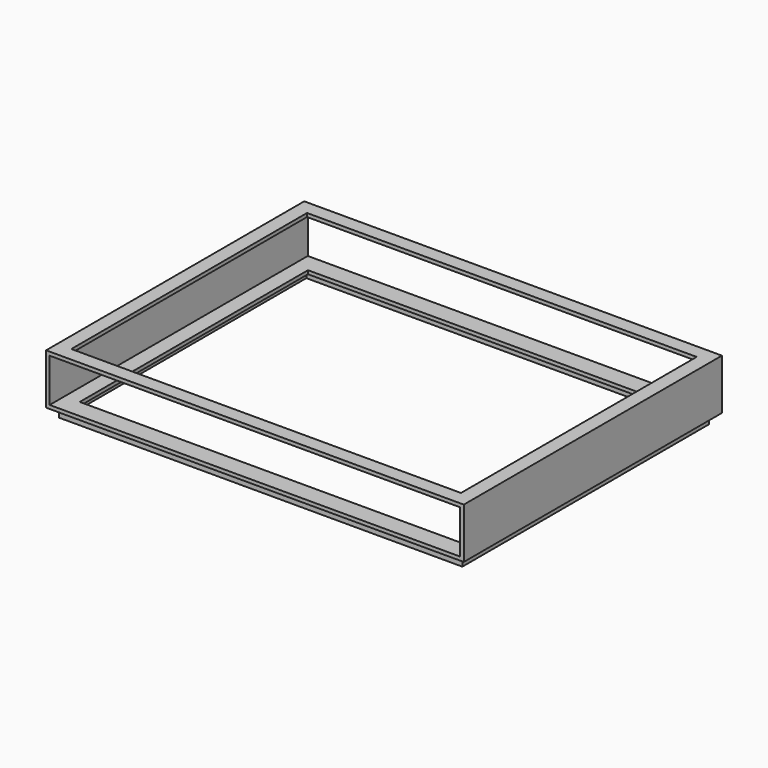
from build123d import *

# Parameters (mm, degrees)
F0_W     = 2233
F0_H     = 270
F0_W_2   = 2195
F0_H_2   = 232
F1_DEPTH = 862.5
F2_W     = 2083
F2_H     = 1575
F3_DEPTH = 38
F4_W     = 2157
F4_H     = 1649
F4_W_2   = 2119
F4_H_2   = 1611
F5_DEPTH = 50
F6_W     = 2033
F6_H     = 1525
F7_DEPTH = 25


with BuildPart() as f1:
    # F0 (on Front) → F1 (new body, symmetric)
    with BuildSketch(Plane.XZ):
        with Locations((1116.5, 135)):
            Rectangle(F0_W, F0_H)
        with Locations((1116.5, 135)):
            Rectangle(F0_W_2, F0_H_2, mode=Mode.SUBTRACT)
    extrude(amount=F1_DEPTH, both=True)

    # F2 (on face) → F3 (cut)
    with BuildSketch(Plane.XY.offset(270)):
        with Locations((1116.5, 0)):
            Rectangle(F2_W, F2_H)
    extrude(amount=-F3_DEPTH, mode=Mode.SUBTRACT)

    # F4 (on face) → F5 (join)
    with BuildSketch(Plane(origin=(0, 0, 0), x_dir=(1, 0, 0), z_dir=(0, 0, -1))):
        with Locations((1116.5, 0)):
            Rectangle(F4_W, F4_H)
        with Locations((1116.5, 0)):
            Rectangle(F4_W_2, F4_H_2, mode=Mode.SUBTRACT)
    extrude(amount=F5_DEPTH)

    # F6 (on face) → F7 (cut)
    with BuildSketch(Plane(origin=(0, 0, 0), x_dir=(1, 0, 0), z_dir=(0, 0, -1))):
        with Locations((1116.5, 0)):
            Rectangle(F6_W, F6_H)
    extrude(amount=-F7_DEPTH, mode=Mode.SUBTRACT)


solid = f1.part
